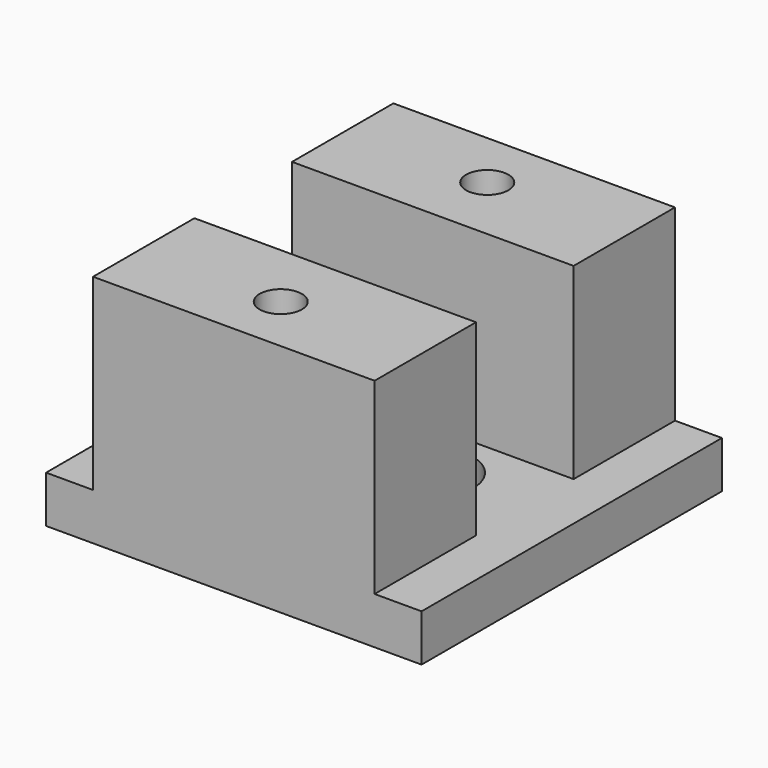
from build123d import *

# Parameters (mm, degrees)
SKETCH_W        = 40
SKETCH_H        = 40
SKETCH_R        = 2.25
PAD_DEPTH       = 25
SKETCH001_W     = 40
SKETCH001_H     = 13
POCKET_DEPTH    = 20
SKETCH002_W     = 6
SKETCH002_H     = 42
POCKET001_DEPTH = 20


with BuildPart() as part:
    # Sketch → Pad (new body)
    with BuildSketch(Plane.XY):
        Rectangle(SKETCH_W, SKETCH_H)
        with Locations((0, 13.75)):
            Circle(SKETCH_R, mode=Mode.SUBTRACT)
        with Locations((0, -13.75)):
            Circle(SKETCH_R, mode=Mode.SUBTRACT)
        with BuildLine():
            ThreePointArc((-4.999983, 4.5), (-9.499983, 9e-06), (-5, -4.5))
            Line((-5, -4.5), (5, -4.5))
            ThreePointArc((5, -4.5), (9.499983, 9e-06), (4.999983, 4.5))
            Line((-4.999983, 4.5), (4.999983, 4.5))
        make_face(mode=Mode.SUBTRACT)
    extrude(amount=PAD_DEPTH)

    # Sketch001 → Pocket (cut)
    with BuildSketch(Plane.XY.offset(25)):
        Rectangle(SKETCH001_W, SKETCH001_H)
    extrude(amount=-POCKET_DEPTH, mode=Mode.SUBTRACT)

    # Sketch002 → Pocket001 (cut)
    with BuildSketch(Plane.XY.offset(25)):
        with Locations((-18, 0)):
            Rectangle(SKETCH002_W, SKETCH002_H)
        with Locations((18, 0)):
            Rectangle(SKETCH002_W, SKETCH002_H)
    extrude(amount=-POCKET001_DEPTH, mode=Mode.SUBTRACT)


solid = part.part
